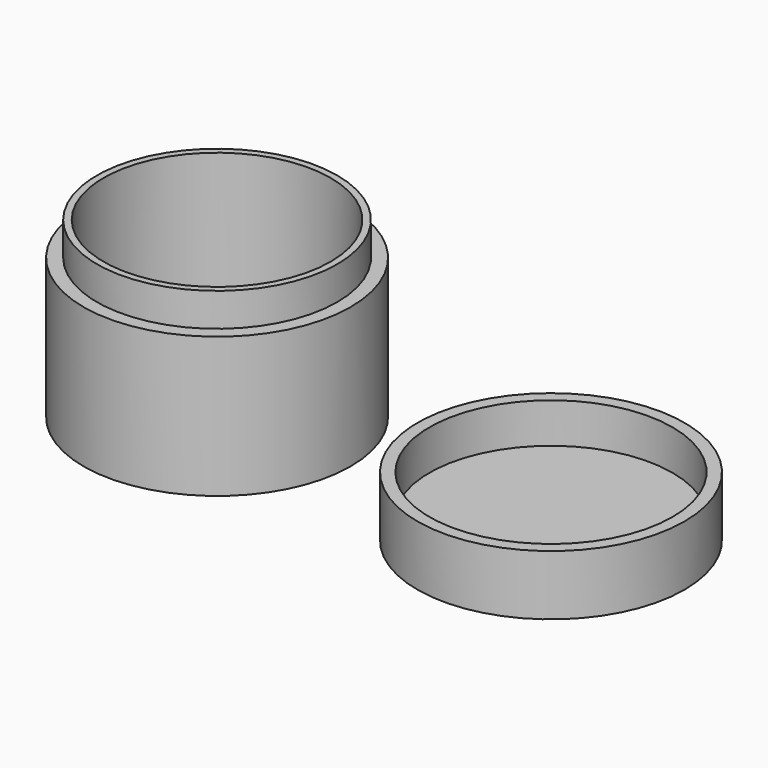
from build123d import *

# Parameters (mm, degrees)
F3_R     = 17
F4_DEPTH = 3
F3_R_2   = 18
F5_DEPTH = 26
F3_R_3   = 20
F6_DEPTH = 21
F7_R     = 18.2
F8_DEPTH = 3
F7_R_2   = 20
F9_DEPTH = 9


with BuildPart() as f4:
    # F3 (on Top) → F4 (new body)
    with BuildSketch(Plane.XY):
        Circle(F3_R)
    extrude(amount=F4_DEPTH)

    # F3 (on Top) → F5 (join)
    with BuildSketch(Plane.XY):
        Circle(F3_R_2)
        Circle(F3_R, mode=Mode.SUBTRACT)
    extrude(amount=F5_DEPTH)

    # F3 (on Top) → F6 (join)
    with BuildSketch(Plane.XY):
        Circle(F3_R_3)
        Circle(F3_R_2, mode=Mode.SUBTRACT)
    extrude(amount=F6_DEPTH)


with BuildPart() as f8:
    # F7 (on Top) → F8 (new body)
    with BuildSketch(Plane.XY):
        with Locations((50, 0)):
            Circle(F7_R)
    extrude(amount=F8_DEPTH)

    # F7 (on Top) → F9 (join)
    with BuildSketch(Plane.XY):
        with Locations((50, 0)):
            Circle(F7_R_2)
        with Locations((50, 0)):
            Circle(F7_R, mode=Mode.SUBTRACT)
    extrude(amount=F9_DEPTH)


solid = Compound([f4.part, f8.part])
